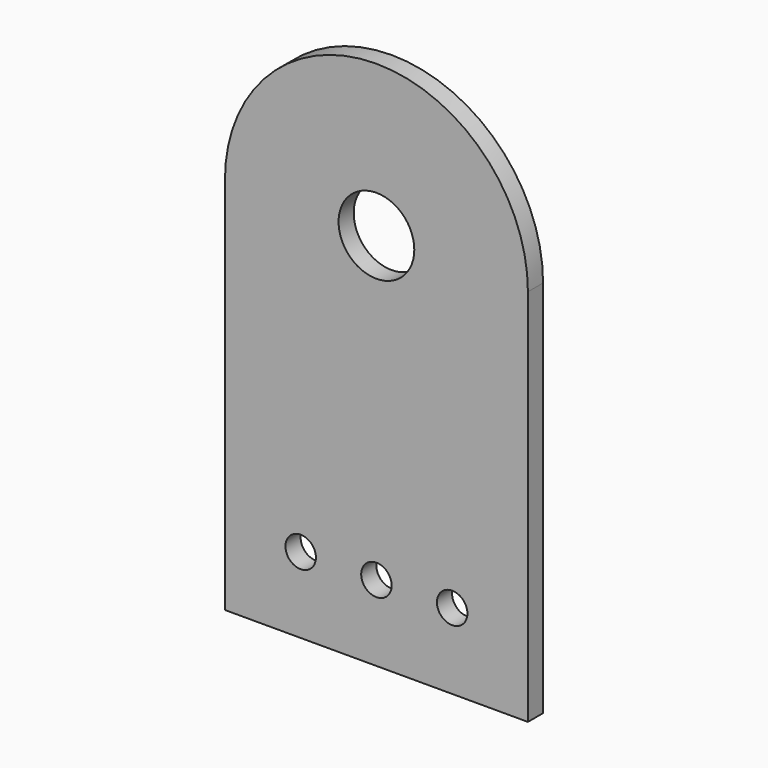
from build123d import *

# Parameters (mm, degrees)
F0_R     = 2.5527
F0_R_2   = 6.35
F1_DEPTH = 3.175


with BuildPart() as f1:
    # F0 (on Front) → F1 (new body)
    with BuildSketch(Plane.XZ):
        with BuildLine():
            Line((25.4, -63.5), (25.4, 0))
            ThreePointArc((25.4, 0), (0, 25.4), (-25.4, 0))
            Line((-25.4, 0), (-25.4, -63.5))
            Line((-25.4, -63.5), (25.4, -63.5))
        make_face()
        with Locations((-12.7, -50.8)):
            Circle(F0_R, mode=Mode.SUBTRACT)
        with Locations((0, -50.8)):
            Circle(F0_R, mode=Mode.SUBTRACT)
        with Locations((12.7, -50.8)):
            Circle(F0_R, mode=Mode.SUBTRACT)
        Circle(F0_R_2, mode=Mode.SUBTRACT)
    extrude(amount=F1_DEPTH)


solid = f1.part
